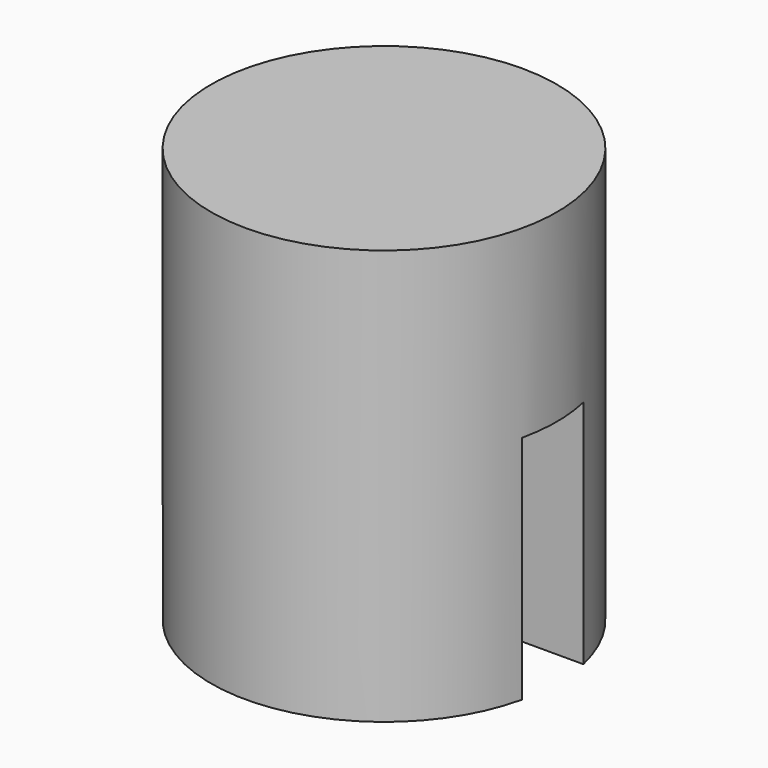
from build123d import *

# Parameters (mm, degrees)
SKETCH007_W                   = 2.25
SKETCH007_H                   = 5.4
POCKET003_DEPTH               = 3
POCKET003_MIRRORED001_2_DEPTH = 3


with BuildPart() as part:
    # Sketch007 → Revolution (revolve)
    with BuildSketch(Plane.YZ):
        with Locations((1.125, 2.7)):
            Rectangle(SKETCH007_W, SKETCH007_H)
    revolve(axis=Axis((0, 0, 0), (0, 0, 1)))

    # Sketch008 → Pocket003 (cut)
    with BuildSketch(Plane.XY):
        Polygon((-3, 0), (0, 0), (0, 1.2), (-1.2, 1.2), (-1.2, 0.5), (-3, 0.5), align=None)
    pocket003 = extrude(amount=POCKET003_DEPTH, mode=Mode.SUBTRACT)

    # Sketch008 Mirrored001 2 → Pocket003 Mirrored001 2 (cut)
    with BuildSketch(Plane(origin=(0, 0, 0), x_dir=(-1, 0, 0), z_dir=(0, 0, -1))):
        Polygon((-3, 0), (0, 0), (0, 1.2), (-1.2, 1.2), (-1.2, 0.5), (-3, 0.5), align=None)
    pocket003_mirrored001_2 = extrude(amount=-POCKET003_MIRRORED001_2_DEPTH, mode=Mode.SUBTRACT)

    # Mirrored002: Pocket003, Pocket003 Mirrored001 2 across Sketch008 H_Axis
    add(pocket003.mirror(Plane.ZX), mode=Mode.SUBTRACT)
    add(pocket003_mirrored001_2.mirror(Plane.ZX), mode=Mode.SUBTRACT)


with BuildPart() as part_1:
    # Body003 placement: moved
    add(part.part.moved(Location((80.72, -163.91, 16.2))))


solid = part_1.part
